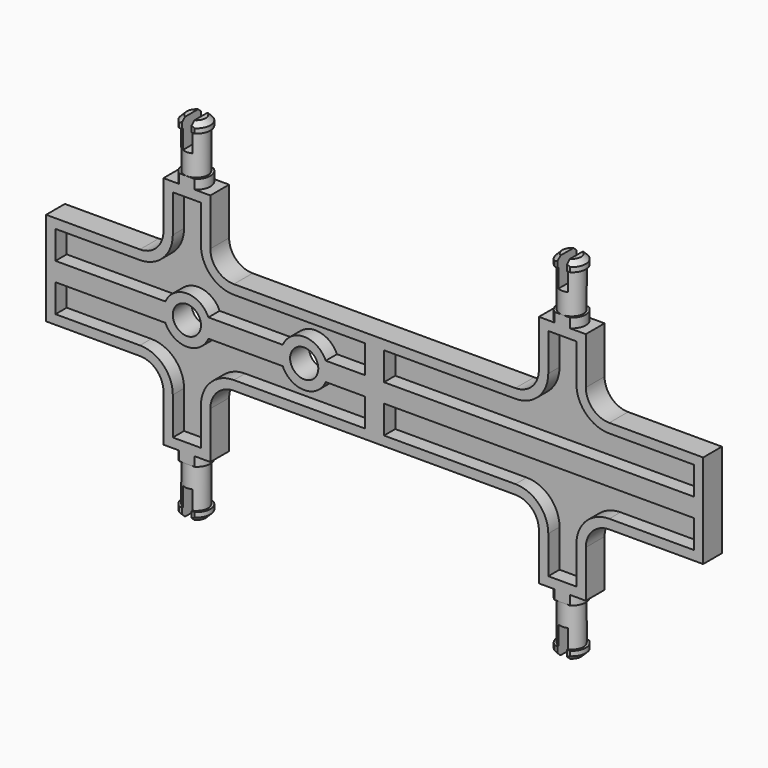
from build123d import *

# Parameters (mm, degrees)
F1_DEPTH  = 2.5
F2_T      = -2
F5_SIZE   = 1
F6_W      = 75
F6_H      = 5
F7_DEPTH  = 37.501
F8_W      = 2
F8_H      = 7.2941179635
F9_DEPTH  = 6
F12_R     = 5
F13_DEPTH = 5
F15_D     = 6


with BuildPart() as f1:
    # F0 (on Front) → F1 (new body, symmetric)
    with BuildSketch(Plane.XZ):
        with BuildLine():
            Line((0, 10), (0, 0))
            Line((0, 0), (70, 0))
            Line((70, 0), (70, 10))
            Line((70, 10), (50, 10))
            ThreePointArc((50, 10), (46.4644660941, 11.4644660941), (45, 15))
            Line((45, 15), (45, 25))
            Line((45, 25), (35, 25))
            Line((35, 25), (35, 15))
            ThreePointArc((35, 15), (33.5355339059, 11.4644660941), (30, 10))
            Line((30, 10), (0, 10))
        make_face()
    extrude(amount=F1_DEPTH, both=True)

    # F2
    f2_openings = [f1.faces().sort_by_distance(p)[0] for p in [
        (35.933685, -2.5, 7.254637),
    ]]
    offset(amount=F2_T, openings=f2_openings)

    # F3 (on Front) → F4 (revolve)
    with BuildSketch(Plane.XZ):
        Polygon((37, 25), (40, 25), (40, 37.5), (37, 37.5), (37, 35.5), (37.5, 35.5), (37.5, 27), (37, 27), align=None)
    revolve(axis=Axis((40, 0, 31.25), (0, 0, 1)))

    # F5
    f5_edges = [f1.edges().sort_by_distance(p)[0] for p in [
        (43, 0, 37.5),
    ]]
    chamfer(f5_edges, length=F5_SIZE)

    # F6 (on face) → F7 (intersect, through all)
    with BuildSketch(Plane.XY.offset(37.5)):
        with Locations((34.6345236758, 0)):
            Rectangle(F6_W, F6_H)
    extrude(amount=-F7_DEPTH, mode=Mode.INTERSECT)

    # F8 (on face) → F9 (cut)
    with BuildSketch(Plane.XY.offset(37.5)):
        with Locations((40, 0.290233409)):
            Rectangle(F8_W, F8_H)
    extrude(amount=-F9_DEPTH, mode=Mode.SUBTRACT)

    # F10: F1 across plane


with BuildPart() as f1_1:
    add(f1.part)
    add(f1.part.mirror(Plane.XY))

    # F11: F1 across plane


with BuildPart() as f1_2:
    add(f1_1.part)
    add(f1_1.part.mirror(Plane.YZ))

    # F12 (on face) → F13 (join, through all)
    with BuildSketch(Plane.XZ.offset(2.5)):
        with Locations((-40, 0)):
            Circle(F12_R)
        with Locations((-15, 0)):
            Circle(F12_R)
    extrude(amount=-F13_DEPTH)

    # F15 (through all)
    with Locations(Plane.XZ.offset(2.5)):
        with Locations((-40, 0), (-15, 0)):
            Hole(F15_D / 2)


solid = f1_2.part
